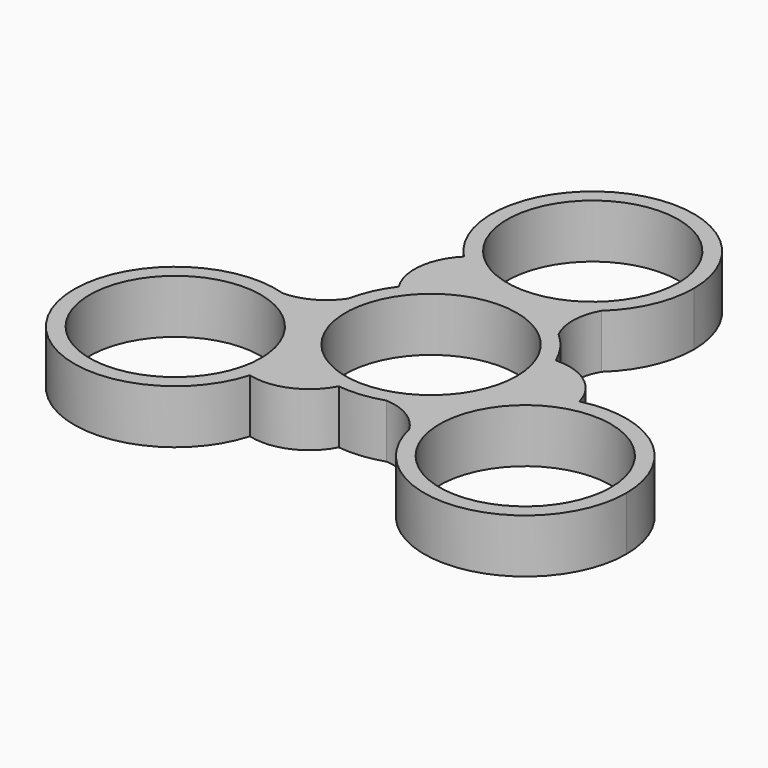
from build123d import *

# Parameters (mm, degrees)
F0_R     = 11.15
F1_DEPTH = 7


with BuildPart() as f1:
    # F0 (on Top) → F1 (new body)
    with BuildSketch(Plane.XY):
        with BuildLine():
            ThreePointArc((11.388234, -6.575), (12.701925, -3.403471), (13.15, 0))
            ThreePointArc((13.15, 0), (12.882943, 2.636715), (12.092621, 5.166335))
            ThreePointArc((12.092621, 5.166335), (10.665576, 7.692073), (8.719458, 9.843453))
            ThreePointArc((8.719458, 9.843453), (4.662676, 12.295607), (0, 13.15))
            ThreePointArc((0, 13.15), (-5.881222, 11.761536), (-10.520488, 7.88935))
            ThreePointArc((-10.520488, 7.88935), (-11.994319, 5.390623), (-12.884409, 2.629546))
            ThreePointArc((-12.884409, 2.629546), (-12.979646, -2.109807), (-11.388234, -6.575))
            ThreePointArc((-11.388234, -6.575), (-7.245177, -10.974056), (-1.572133, -13.055684))
            ThreePointArc((-1.572133, -13.055684), (1.328743, -13.082696), (4.164951, -12.472998))
            ThreePointArc((4.164951, -12.472998), (8.31697, -10.1858), (11.388234, -6.575))
        make_face()
        Circle(F0_R, mode=Mode.SUBTRACT)
        with BuildLine():
            ThreePointArc((12.092621, 5.166335), (12.882943, 2.636715), (13.15, 0))
            ThreePointArc((13.15, 0), (12.701925, -3.403471), (11.388234, -6.575))
            ThreePointArc((11.388234, -6.575), (14.871744, -2.641059), (19.617412, -0.385093))
            ThreePointArc((19.617412, -0.385093), (16.82857, 3.710244), (12.092621, 5.166335))
        make_face()
        with BuildLine():
            ThreePointArc((9.936386, -15.988096), (9.780145, -11.145485), (11.388234, -6.575))
            ThreePointArc((11.388234, -6.575), (8.31697, -10.1858), (4.164951, -12.472998))
            ThreePointArc((4.164951, -12.472998), (7.488877, -13.511052), (9.936386, -15.988096))
        make_face()
        with BuildLine():
            ThreePointArc((19.617412, -0.385093), (14.871744, -2.641059), (11.388234, -6.575))
            ThreePointArc((11.388234, -6.575), (9.780145, -11.145485), (9.936386, -15.988096))
            ThreePointArc((9.936386, -15.988096), (24.203952, -26.222291), (35.926468, -13.15))
            ThreePointArc((35.926468, -13.15), (30.881433, -2.794709), (19.617412, -0.385093))
        make_face()
        with Locations((22.776468, -13.15)):
            Circle(F0_R, mode=Mode.SUBTRACT)
        with BuildLine():
            ThreePointArc((0, 13.15), (4.662676, 12.295607), (8.719458, 9.843453))
            ThreePointArc((8.719458, 9.843453), (7.956476, 13.241084), (8.877904, 16.59921))
            ThreePointArc((8.877904, 16.59921), (4.762201, 14.042596), (0, 13.15))
        make_face()
        with BuildLine():
            ThreePointArc((-10.520488, 7.88935), (-5.881222, 11.761536), (0, 13.15))
            ThreePointArc((0, 13.15), (-5.148648, 14.199838), (-9.475206, 17.181723))
            ThreePointArc((-9.475206, 17.181723), (-11.627451, 12.718847), (-10.520488, 7.88935))
        make_face()
        with BuildLine():
            ThreePointArc((-9.475206, 17.181723), (-5.148648, 14.199838), (0, 13.15))
            ThreePointArc((0, 13.15), (4.762201, 14.042596), (8.877904, 16.59921))
            ThreePointArc((8.877904, 16.59921), (12.034678, 21.000091), (13.15, 26.3))
            ThreePointArc((13.15, 26.3), (-4.915463, 38.496751), (-9.475206, 17.181723))
        make_face()
        with Locations((0, 26.3)):
            Circle(F0_R, mode=Mode.SUBTRACT)
        with BuildLine():
            ThreePointArc((-10.142206, -16.79663), (-5.20112, -16.429091), (-1.572133, -13.055684))
            ThreePointArc((-1.572133, -13.055684), (-7.245177, -10.974056), (-11.388234, -6.575))
            ThreePointArc((-11.388234, -6.575), (-10.074543, -9.74653), (-9.626468, -13.15))
            ThreePointArc((-9.626468, -13.15), (-9.756041, -14.99146), (-10.142206, -16.79663))
        make_face()
        with BuildLine():
            ThreePointArc((-18.81429, -0.611115), (-14.542346, -2.897111), (-11.388234, -6.575))
            ThreePointArc((-11.388234, -6.575), (-12.979646, -2.109807), (-12.884409, 2.629546))
            ThreePointArc((-12.884409, 2.629546), (-15.445353, 0.269968), (-18.81429, -0.611115))
        make_face()
        with BuildLine():
            ThreePointArc((-9.626468, -13.15), (-10.074543, -9.74653), (-11.388234, -6.575))
            ThreePointArc((-11.388234, -6.575), (-14.542346, -2.897111), (-18.81429, -0.611115))
            ThreePointArc((-18.81429, -0.611115), (-34.367551, -19.360419), (-10.142206, -16.79663))
            ThreePointArc((-10.142206, -16.79663), (-9.756041, -14.99146), (-9.626468, -13.15))
        make_face()
        with Locations((-22.776468, -13.15)):
            Circle(F0_R, mode=Mode.SUBTRACT)
    extrude(amount=F1_DEPTH)


solid = f1.part
